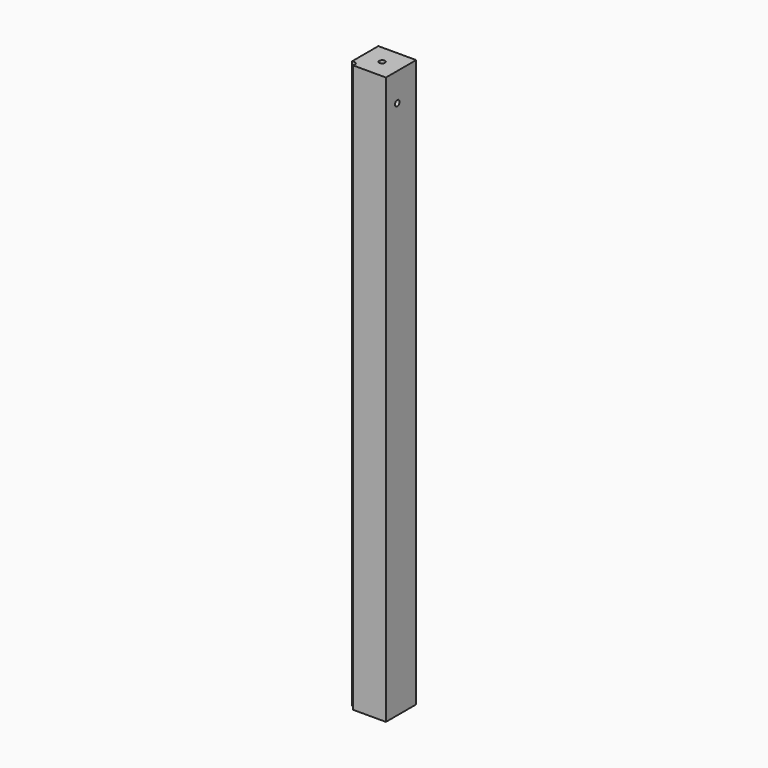
from build123d import *

# Parameters (mm, degrees)
F0_W      = 40
F0_H      = 40
F1_DEPTH  = 600
F2_R      = 3
F3_DEPTH  = 12
F4_R      = 3
F5_DEPTH  = 12
F7_DEPTH  = 600
F8_R      = 3
F9_DEPTH  = 12
F10_DEPTH = 12
F11_R     = 3
F12_DEPTH = 12


with BuildPart() as f1:
    # F0 (on Top) → F1 (new body)
    with BuildSketch(Plane.XY):
        with Locations((-32.4728810042, 32.3857110739)):
            Rectangle(F0_W, F0_H)
    extrude(amount=F1_DEPTH)

    # F2 (on face) → F3 (cut)
    with BuildSketch(Plane.YZ.offset(-12.4728810042)):
        with Locations((27.3857110739, 570)):
            Circle(F2_R)
    extrude(amount=-F3_DEPTH, mode=Mode.SUBTRACT)

    # F4 (on face) → F5 (cut)
    with BuildSketch(Plane(origin=(0, 52.3857110739, 0), x_dir=(-1, 0, 0), z_dir=(0, 1, 0))):
        with Locations((37.4728810042, 570)):
            Circle(F4_R)
    extrude(amount=-F5_DEPTH, mode=Mode.SUBTRACT)

    # F6 (on face) → F7 (cut)
    with BuildSketch(Plane.XY.offset(600)):
        with BuildLine():
            ThreePointArc((-47.5474812124, 12.3857110739), (-47.0872668168, 13.3390112528), (-46.9291592401, 14.3857110739))
            ThreePointArc((-46.9291592401, 14.3857110739), (-48.8190187951, 17.5198303656), (-52.4728810042, 17.3111108656))
            Line((-52.4728810042, 17.3111108656), (-52.4728810042, 12.3857110739))
            Line((-52.4728810042, 12.3857110739), (-47.5474812124, 12.3857110739))
        make_face()
    extrude(amount=-F7_DEPTH, mode=Mode.SUBTRACT)

    # F8 (on face) → F9 (cut)
    with BuildSketch(Plane.XY.offset(600)):
        with Locations((-32.4728810042, 32.3857110739)):
            Circle(F8_R)
    extrude(amount=-F9_DEPTH, mode=Mode.SUBTRACT)

    # F4 (on face) → F10 (cut)
    with BuildSketch(Plane(origin=(0, 52.3857110739, 0), x_dir=(-1, 0, 0), z_dir=(0, 1, 0))):
        with Locations((32.4728810042, 450)):
            Circle(F4_R)
    extrude(amount=-F10_DEPTH, mode=Mode.SUBTRACT)

    # F11 (on face) → F12 (cut)
    with BuildSketch(Plane(origin=(0, 52.3857110739, 0), x_dir=(-1, 0, 0), z_dir=(0, 1, 0))):
        with Locations((32.4728810042, 150)):
            Circle(F11_R)
    extrude(amount=-F12_DEPTH, mode=Mode.SUBTRACT)


solid = f1.part
